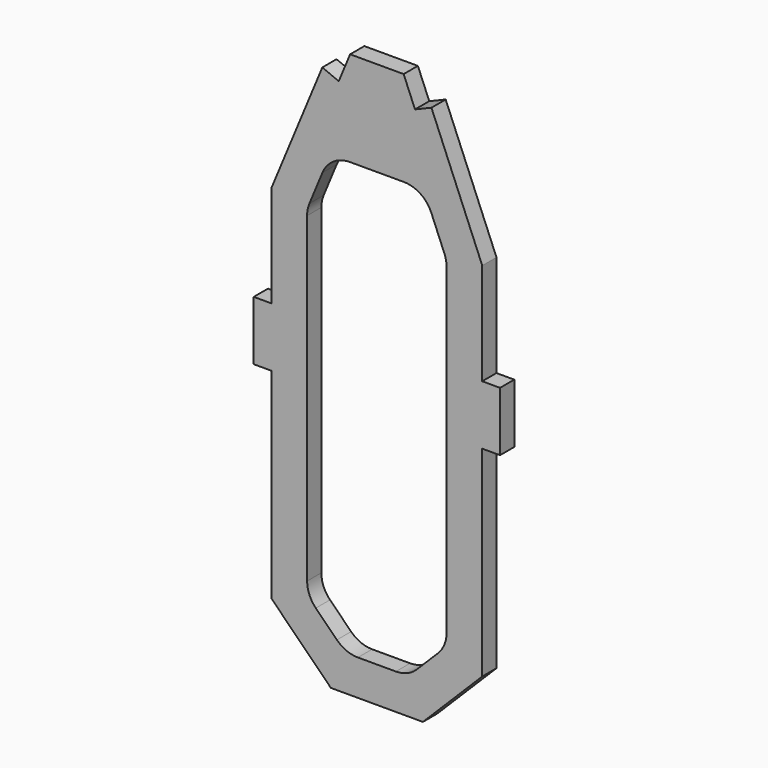
from build123d import *

# Parameters (mm, degrees)
F1_DEPTH = 1.5


with BuildPart() as f1:
    # F0 (on Front) → F1 (new body, symmetric)
    with BuildSketch(Plane.XZ):
        Polygon((-9.1988799724, 42.8113603865), (-17.76, 22.1705), (-17.76, 5), (-20.76, 5), (-20.76, -5), (-17.76, -5), (-17.76, -38.80904), (-7.76, -48.80904), (7.76, -48.80904), (17.76, -38.80904), (17.76, -5), (20.76, -5), (20.76, 5), (17.76, 5), (17.76, 22.1705), (9.1988799724, 42.8113603865), (6.4277825871, 41.6620043577), (4.5121892058, 46.2805), (-4.5121892058, 46.2805), (-6.4277825871, 41.6620043577), align=None)
        with BuildLine():
            Line((9.1799348689, 27.1960933813), (11.3784956423, 21.8953633568))
            ThreePointArc((11.3784956423, 21.8953633568), (11.6636964736, 20.9563768024), (11.76, 19.9797699755))
            Line((11.76, 19.9797699755), (11.76, -34.2526908139))
            ThreePointArc((11.76, -34.2526908139), (11.3793976626, -36.1661079757), (10.2955339059, -37.7882247198))
            Line((10.2955339059, -37.7882247198), (6.7391847198, -41.3445739059))
            ThreePointArc((6.7391847198, -41.3445739059), (5.1170679757, -42.4284376626), (3.2036508139, -42.80904))
            Line((3.2036508139, -42.80904), (0, -42.80904))
            Line((0, -42.80904), (-3.2036508139, -42.80904))
            ThreePointArc((-3.2036508139, -42.80904), (-5.1170679757, -42.4284376626), (-6.7391847198, -41.3445739059))
            Line((-6.7391847198, -41.3445739059), (-10.2955339059, -37.7882247198))
            ThreePointArc((-10.2955339059, -37.7882247198), (-11.3793976626, -36.1661079757), (-11.76, -34.2526908139))
            Line((-11.76, -34.2526908139), (-11.76, 19.9797699755))
            ThreePointArc((-11.76, 19.9797699755), (-11.6636964736, 20.9563768024), (-11.3784956423, 21.8953633568))
            Line((-11.3784956423, 21.8953633568), (-9.1799348689, 27.1960933813))
            ThreePointArc((-9.1799348689, 27.1960933813), (-7.3383109462, 29.4385023392), (-4.5614392267, 30.2805))
            Line((-4.5614392267, 30.2805), (4.5614392267, 30.2805))
            ThreePointArc((4.5614392267, 30.2805), (7.3383109462, 29.4385023392), (9.1799348689, 27.1960933813))
        make_face(mode=Mode.SUBTRACT)
    extrude(amount=F1_DEPTH, both=True)


solid = f1.part
